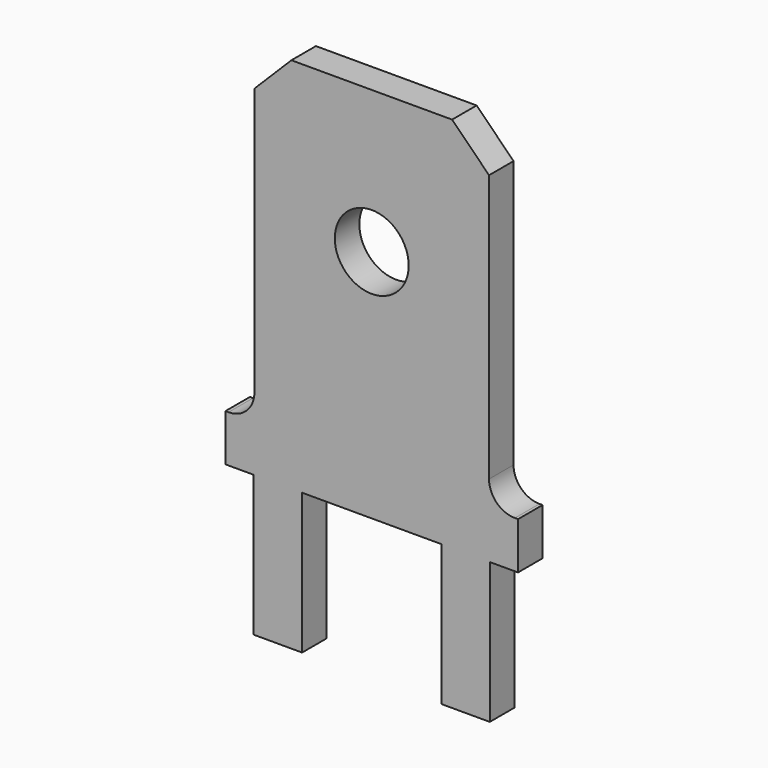
from build123d import *

# Parameters (mm, degrees)
F0_R     = 1
F1_DEPTH = 0.415
F2_SIZE  = 1
F3_R     = 0.7


with BuildPart() as f1:
    # F0 (on Front) → F1 (new body, symmetric)
    with BuildSketch(Plane.XZ):
        Polygon((-3.96, 1.27), (-3.96, 0), (-3.195, 0), (-3.195, -3.81), (-1.885, -3.81), (-1.885, 0), (1.885, 0), (1.885, -3.81), (3.195, -3.81), (3.195, 0), (3.96, 0), (3.96, 1.27), (3.175, 1.27), (3.175, 10.21), (-3.175, 10.21), (-3.175, 1.27), align=None)
        with Locations((0, 6.35)):
            Circle(F0_R, mode=Mode.SUBTRACT)
    extrude(amount=F1_DEPTH, both=True)

    # F2
    f2_edges = [f1.edges().sort_by_distance(p)[0] for p in [
        (3.175, 0, 10.21),
        (-3.175, 0, 10.21),
    ]]
    chamfer(f2_edges, length=F2_SIZE)

    # F3
    f3_edges = [f1.edges().sort_by_distance(p)[0] for p in [
        (3.175, 0, 1.27),
        (-3.175, 0, 1.27),
    ]]
    fillet(f3_edges, radius=F3_R)


solid = f1.part
